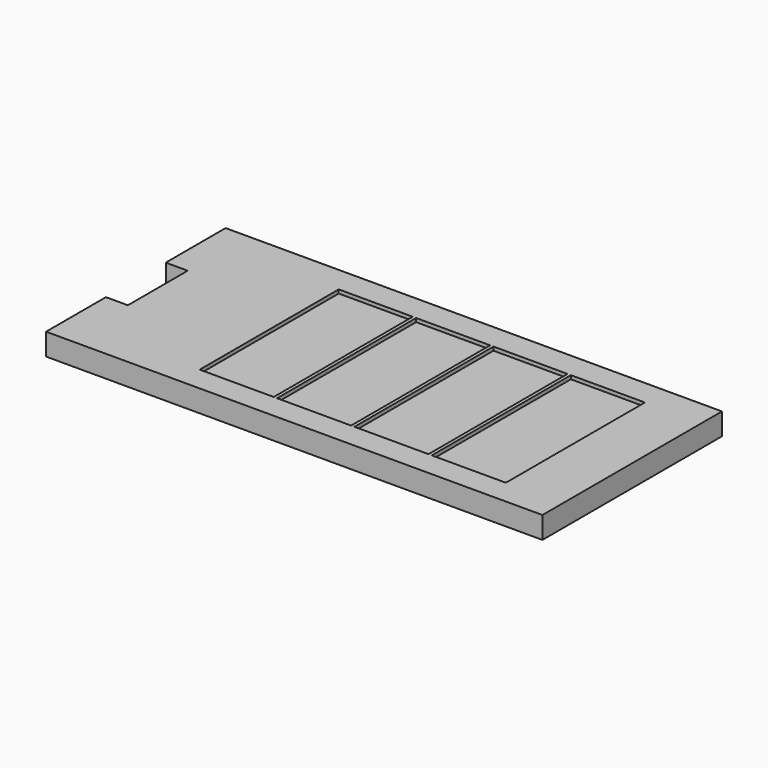
from build123d import *

# Parameters (mm, degrees)
F0_W     = 64.262
F0_H     = 150.876
F1_DEPTH = 19.05
F2_DEPTH = 15.875


with BuildPart() as f1:
    # F0 (on Top) → F1 (new body)
    with BuildSketch(Plane.XY):
        Polygon((-215.4555, -97.409), (215.4555, -97.409), (215.4555, 97.409), (-215.4555, 97.409), (-215.4555, 32.469667), (-196.4055, 32.469667), (-196.4055, 78.359), (196.4055, 78.359), (196.4055, -78.359), (-196.4055, -78.359), (-196.4055, -32.469667), (-215.4555, -32.469667), align=None)
        Polygon((-196.4055, 32.469667), (-196.4055, -32.469667), (-196.4055, -78.359), (196.4055, -78.359), (196.4055, 78.359), (-196.4055, 78.359), align=None)
        with Locations((-67.183, -0.4318)):
            Rectangle(F0_W, F0_H, mode=Mode.SUBTRACT)
        with Locations((0, -0.441808)):
            Rectangle(F0_W, F0_H, mode=Mode.SUBTRACT)
        with Locations((67.183, -0.431798)):
            Rectangle(F0_W, F0_H, mode=Mode.SUBTRACT)
        with Locations((134.366, -0.4318)):
            Rectangle(F0_W, F0_H, mode=Mode.SUBTRACT)
    extrude(amount=F1_DEPTH)

    # F0 (on Top) → F2 (join)
    with BuildSketch(Plane.XY):
        with Locations((-67.183, -0.4318)):
            Rectangle(F0_W, F0_H)
        with Locations((0, -0.441808)):
            Rectangle(F0_W, F0_H)
        with Locations((67.183, -0.431798)):
            Rectangle(F0_W, F0_H)
        with Locations((134.366, -0.4318)):
            Rectangle(F0_W, F0_H)
    extrude(amount=F2_DEPTH)


solid = f1.part
